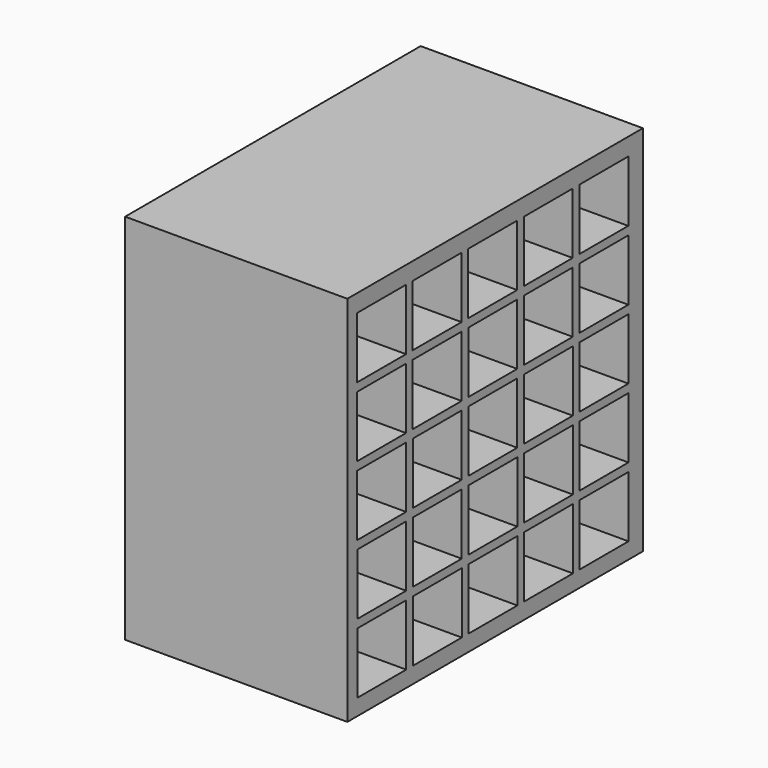
from build123d import *

# Parameters (mm, degrees)
F0_W     = 13.296557
F0_H     = 13.408921
F0_W_2   = 2.2
F0_H_2   = 2.2
F1_DEPTH = 8


with BuildPart() as f1:
    # F0 (on Right) → F1 (new body)
    with BuildSketch(Plane.YZ):
        with Locations((5.704755, -8.545218)):
            Rectangle(F0_W, F0_H)
        with Locations((0.604655, -13.568869)):
            Rectangle(F0_W_2, F0_H_2, mode=Mode.SUBTRACT)
        with Locations((3.104655, -13.568869)):
            Rectangle(F0_W_2, F0_H_2, mode=Mode.SUBTRACT)
        with Locations((5.604655, -13.568869)):
            Rectangle(F0_W_2, F0_H_2, mode=Mode.SUBTRACT)
        with Locations((0.602163, -11.068871)):
            Rectangle(F0_W_2, F0_H_2, mode=Mode.SUBTRACT)
        with Locations((0.59967, -8.568872)):
            Rectangle(F0_W_2, F0_H_2, mode=Mode.SUBTRACT)
        with Locations((3.102163, -11.068871)):
            Rectangle(F0_W_2, F0_H_2, mode=Mode.SUBTRACT)
        with Locations((5.602163, -11.068871)):
            Rectangle(F0_W_2, F0_H_2, mode=Mode.SUBTRACT)
        with Locations((3.09967, -8.568872)):
            Rectangle(F0_W_2, F0_H_2, mode=Mode.SUBTRACT)
        with Locations((5.59967, -8.568872)):
            Rectangle(F0_W_2, F0_H_2, mode=Mode.SUBTRACT)
        with Locations((8.104655, -13.568869)):
            Rectangle(F0_W_2, F0_H_2, mode=Mode.SUBTRACT)
        with Locations((10.604655, -13.568869)):
            Rectangle(F0_W_2, F0_H_2, mode=Mode.SUBTRACT)
        with Locations((8.102163, -11.068871)):
            Rectangle(F0_W_2, F0_H_2, mode=Mode.SUBTRACT)
        with Locations((8.09967, -8.568872)):
            Rectangle(F0_W_2, F0_H_2, mode=Mode.SUBTRACT)
        with Locations((10.602163, -11.068871)):
            Rectangle(F0_W_2, F0_H_2, mode=Mode.SUBTRACT)
        with Locations((10.59967, -8.568872)):
            Rectangle(F0_W_2, F0_H_2, mode=Mode.SUBTRACT)
        with Locations((0.597177, -6.068873)):
            Rectangle(F0_W_2, F0_H_2, mode=Mode.SUBTRACT)
        with Locations((3.097177, -6.068873)):
            Rectangle(F0_W_2, F0_H_2, mode=Mode.SUBTRACT)
        with Locations((5.597177, -6.068873)):
            Rectangle(F0_W_2, F0_H_2, mode=Mode.SUBTRACT)
        with Locations((0.594684, -3.568874)):
            Rectangle(F0_W_2, F0_H_2, mode=Mode.SUBTRACT)
        with Locations((3.094684, -3.568874)):
            Rectangle(F0_W_2, F0_H_2, mode=Mode.SUBTRACT)
        with Locations((5.594684, -3.568874)):
            Rectangle(F0_W_2, F0_H_2, mode=Mode.SUBTRACT)
        with Locations((8.097177, -6.068873)):
            Rectangle(F0_W_2, F0_H_2, mode=Mode.SUBTRACT)
        with Locations((10.597177, -6.068873)):
            Rectangle(F0_W_2, F0_H_2, mode=Mode.SUBTRACT)
        with Locations((8.094684, -3.568874)):
            Rectangle(F0_W_2, F0_H_2, mode=Mode.SUBTRACT)
        with Locations((10.594684, -3.568874)):
            Rectangle(F0_W_2, F0_H_2, mode=Mode.SUBTRACT)
    extrude(amount=F1_DEPTH)


solid = f1.part
